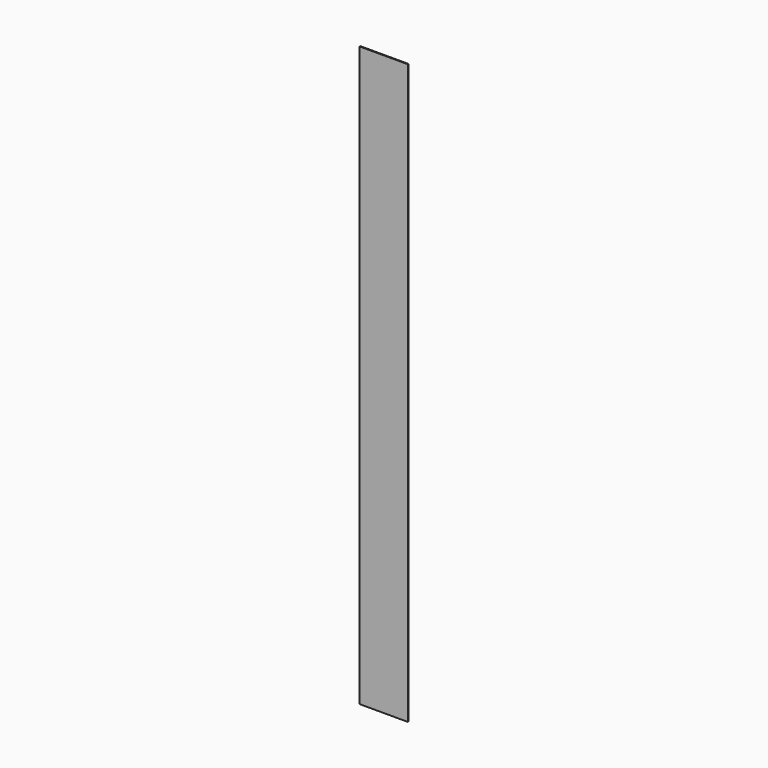
from build123d import *

# Parameters (mm, degrees)
F0_W     = 500
F0_H     = 6000
F1_DEPTH = 4
F3_D     = 1


with BuildPart() as f1:
    # F0 (on Front) → F1 (new body, symmetric)
    with BuildSketch(Plane.XZ):
        Rectangle(F0_W, F0_H)
    extrude(amount=F1_DEPTH, both=True)

    # F3 (through all)
    with Locations(Plane.XZ.offset(4)):
        with Locations((0, 2925), (0, 1500), (0, 0), (0, -1500), (0, -2925)):
            Hole(F3_D / 2)


solid = f1.part
